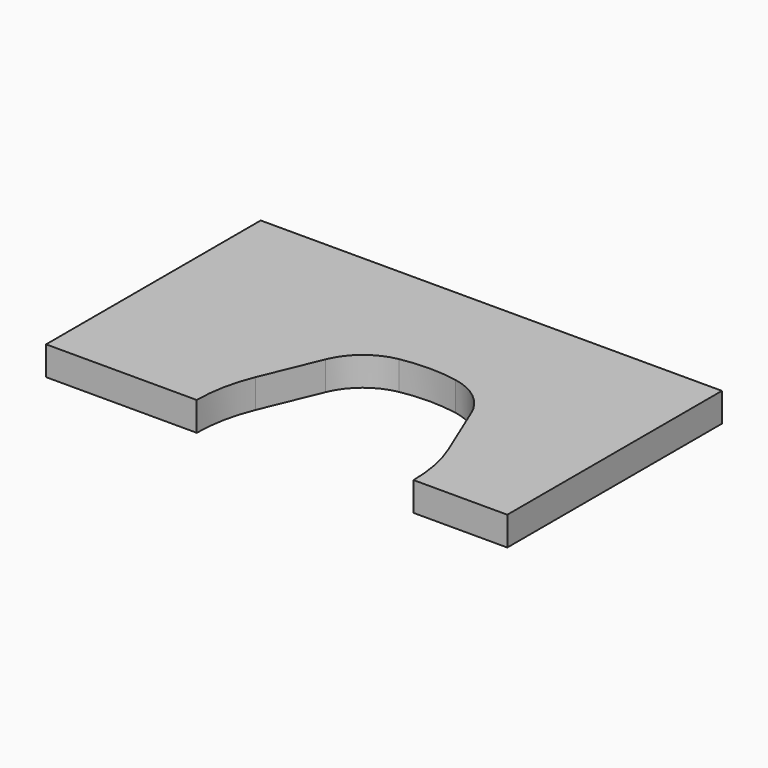
from build123d import *

# Parameters (mm, degrees)
F1_DEPTH = 4.7752


with BuildPart() as f1:
    # F0 (on Top) → F1 (new body)
    with BuildSketch(Plane.XY):
        with BuildLine():
            Line((33.401, 44.323), (-42.799, 44.323))
            Line((-42.799, 44.323), (-42.799, 0))
            Line((-42.799, 0), (-17.907, 0))
            ThreePointArc((-17.907, 0), (-17.418946, 4.955294), (-15.97354, 9.720159))
            Line((-15.97354, 9.720159), (-12.015225, 19.276377))
            ThreePointArc((-12.015225, 19.276377), (-9.095689, 23.185245), (-4.664367, 25.226403))
            ThreePointArc((-4.664367, 25.226403), (0, 25.654), (4.664367, 25.226403))
            ThreePointArc((4.664367, 25.226403), (9.095689, 23.185245), (12.015225, 19.276377))
            Line((12.015225, 19.276377), (15.97354, 9.720159))
            ThreePointArc((15.97354, 9.720159), (17.418946, 4.955294), (17.907, 0))
            Line((17.907, 0), (33.401, 0))
            Line((33.401, 0), (33.401, 44.323))
        make_face()
        with BuildLine():
            Line((33.401, 44.323), (-42.799, 44.323))
            Line((-42.799, 44.323), (-42.799, 0))
            Line((-42.799, 0), (-17.907, 0))
            ThreePointArc((-17.907, 0), (-17.418946, 4.955294), (-15.97354, 9.720159))
            Line((-15.97354, 9.720159), (-12.015225, 19.276377))
            ThreePointArc((-12.015225, 19.276377), (-9.095689, 23.185245), (-4.664367, 25.226403))
            ThreePointArc((-4.664367, 25.226403), (0, 25.654), (4.664367, 25.226403))
            ThreePointArc((4.664367, 25.226403), (9.095689, 23.185245), (12.015225, 19.276377))
            Line((12.015225, 19.276377), (15.97354, 9.720159))
            ThreePointArc((15.97354, 9.720159), (17.418946, 4.955294), (17.907, 0))
            Line((17.907, 0), (33.401, 0))
            Line((33.401, 0), (33.401, 44.323))
        make_face()
        with BuildLine():
            Line((33.401, 44.323), (-42.799, 44.323))
            Line((-42.799, 44.323), (-42.799, 0))
            Line((-42.799, 0), (-17.907, 0))
            ThreePointArc((-17.907, 0), (-17.418946, 4.955294), (-15.97354, 9.720159))
            Line((-15.97354, 9.720159), (-12.015225, 19.276377))
            ThreePointArc((-12.015225, 19.276377), (-9.095689, 23.185245), (-4.664367, 25.226403))
            ThreePointArc((-4.664367, 25.226403), (0, 25.654), (4.664367, 25.226403))
            ThreePointArc((4.664367, 25.226403), (9.095689, 23.185245), (12.015225, 19.276377))
            Line((12.015225, 19.276377), (15.97354, 9.720159))
            ThreePointArc((15.97354, 9.720159), (17.418946, 4.955294), (17.907, 0))
            Line((17.907, 0), (33.401, 0))
            Line((33.401, 0), (33.401, 44.323))
        make_face()
    extrude(amount=F1_DEPTH)


solid = f1.part
